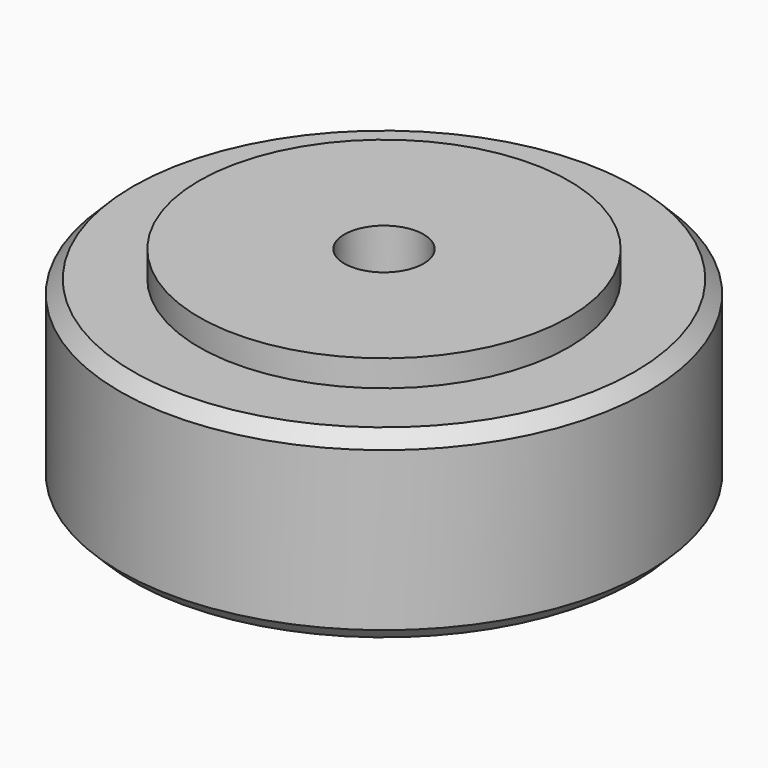
from build123d import *

# Parameters (mm, degrees)
F0_R     = 7
F1_DEPTH = 1
F0_R_2   = 10
F2_DEPTH = 7
F3_SIZE  = 0.5
F4_R     = 7
F4_R_2   = 1.5
F5_DEPTH = 6
F6_DEPTH = 25


with BuildPart() as f1:
    # F0 (on Top) → F1 (new body)
    with BuildSketch(Plane.XY):
        Circle(F0_R)
    extrude(amount=F1_DEPTH)

    # F0 (on Top) → F2 (join)
    with BuildSketch(Plane.XY):
        Circle(F0_R_2)
        Circle(F0_R, mode=Mode.SUBTRACT)
        Circle(F0_R)
    extrude(amount=-F2_DEPTH)

    # F3
    f3_edges = [f1.edges().sort_by_distance(p)[0] for p in [
        (-10, 0, 0),
        (-10, 0, -7),
    ]]
    chamfer(f3_edges, length=F3_SIZE)

    # F4 (on face) → F5 (cut)
    with BuildSketch(Plane(origin=(0, 0, -7), x_dir=(1, 0, 0), z_dir=(0, 0, -1))):
        Circle(F4_R)
        Circle(F4_R_2, mode=Mode.SUBTRACT)
        Circle(F4_R_2)
    extrude(amount=-F5_DEPTH, mode=Mode.SUBTRACT)

    # F4 (on face) → F6 (cut)
    with BuildSketch(Plane(origin=(0, 0, -7), x_dir=(1, 0, 0), z_dir=(0, 0, -1))):
        Circle(F4_R_2)
    extrude(amount=-F6_DEPTH, mode=Mode.SUBTRACT)


solid = f1.part
